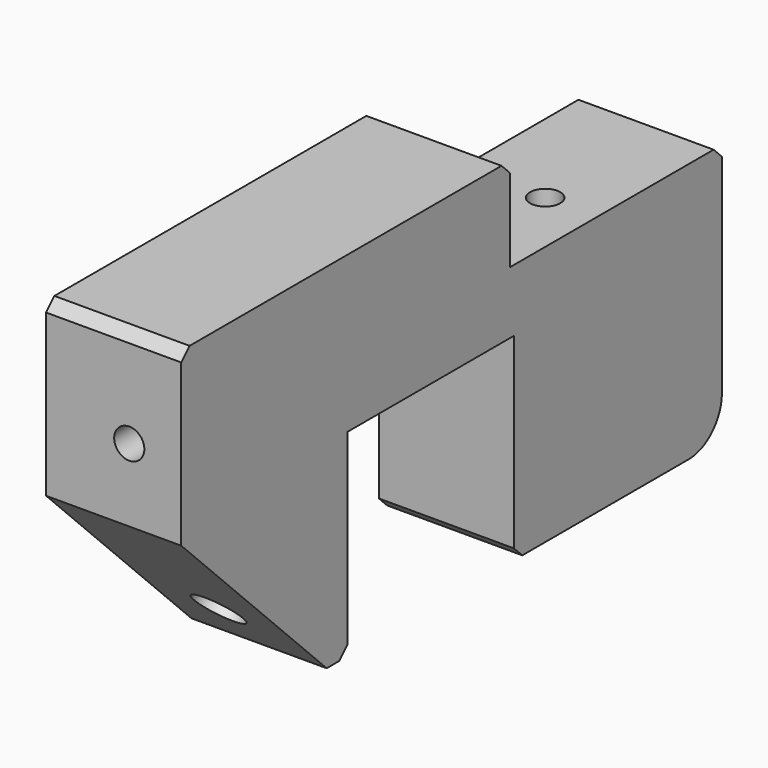
from build123d import *

# Parameters (mm, degrees)
BOX012_W                    = 13
BOX012_H                    = 65
BOX012_DEPTH                = 1
CYLINDER004_R               = 4
CYLINDER004_DEPTH           = 10
CYLINDER002_R               = 1.45
CYLINDER002_DEPTH           = 10
CYLINDER001_R               = 2.35
CYLINDER001_DEPTH           = 15
CYLINDER001_PLACEMENT_ANGLE = 45
CYLINDER_R                  = 1.45
CYLINDER_DEPTH              = 10
BOX004_W                    = 8
BOX004_H                    = 20
BOX004_DEPTH                = 15
BOX002_W                    = 13
BOX002_H                    = 25.5
BOX002_DEPTH                = 9
BOX003_W                    = 13
BOX003_H                    = 25
BOX003_DEPTH                = 50
BOX003_PLACEMENT_ANGLE      = 45
BOX_W                       = 13
BOX_H                       = 20
BOX_DEPTH                   = 20
BOX001_W                    = 13
BOX001_H                    = 65
BOX001_DEPTH                = 35
CHAMFER_SIZE                = 1
FILLET_R                    = 4


with BuildPart() as cube008:
    # Box012 → Box012 (new body)
    with BuildSketch(Plane(origin=(0, -20, 0), x_dir=(1, 0, 0), z_dir=(0, 0, 1))):
        with Locations((6.5, 32.5)):
            Rectangle(BOX012_W, BOX012_H)
    extrude(amount=BOX012_DEPTH)


with BuildPart() as cylinder004:
    # Cylinder004 → Cylinder004 (new body)
    with BuildSketch(Plane(origin=(0, 37.5, 6), x_dir=(0, 0, -1), z_dir=(1, 0, 0))):
        Circle(CYLINDER004_R)
    extrude(amount=CYLINDER004_DEPTH)


with BuildPart() as cylinder002:
    # Cylinder002 → Cylinder002 (new body)
    with BuildSketch(Plane(origin=(8, -11, 25.5), x_dir=(1, 0, 0), z_dir=(0, -1, 0))):
        Circle(CYLINDER002_R)
    extrude(amount=CYLINDER002_DEPTH)


with BuildPart() as cylinder001:
    # Cylinder001 → Cylinder001 (new body)
    with BuildSketch(Plane.XY):
        Circle(CYLINDER001_R)
    extrude(amount=CYLINDER001_DEPTH)


with BuildPart() as cylinder001_1:
    # Cylinder001 placement: moved
    add(cylinder001.part.moved(Location((6.5, -8.899495, 4.343146))).rotate(Axis((6.5, -8.899495, 4.343146), (-1, 0, 0)), CYLINDER001_PLACEMENT_ANGLE))


with BuildPart() as fusion_holes:
    # Cylinder → Cylinder (new body)
    with BuildSketch(Plane(origin=(8, 30, 18), x_dir=(1, 0, 0), z_dir=(0, 0, 1))):
        Circle(CYLINDER_R)
    extrude(amount=CYLINDER_DEPTH)

    # Fusion001: union Cylinder002, Cylinder001
    add(cylinder002.part)
    add(cylinder001_1.part)


with BuildPart() as cube003:
    # Box004 → Box004 (new body)
    with BuildSketch(Plane(origin=(0, 25, 0), x_dir=(1, 0, 0), z_dir=(0, 0, 1))):
        with Locations((4, 10)):
            Rectangle(BOX004_W, BOX004_H)
    extrude(amount=BOX004_DEPTH)


with BuildPart() as cube002:
    # Box002 → Box002 (new body)
    with BuildSketch(Plane(origin=(0, 19.5, 26), x_dir=(1, 0, 0), z_dir=(0, 0, 1))):
        with Locations((6.5, 12.75)):
            Rectangle(BOX002_W, BOX002_H)
    extrude(amount=BOX002_DEPTH)


with BuildPart() as cube_45deg:
    # Box003 → Box003 (new body)
    with BuildSketch(Plane.XY):
        with Locations((6.5, 12.5)):
            Rectangle(BOX003_W, BOX003_H)
    extrude(amount=BOX003_DEPTH)


with BuildPart() as cube_45deg_1:
    # Box003 placement: moved
    add(cube_45deg.part.moved(Location((0, -18.485281, -18.384776))).rotate(Axis((0, -18.485281, -18.384776), (1, 0, 0)), BOX003_PLACEMENT_ANGLE))


with BuildPart() as fusion:
    # Box → Box (new body)
    with BuildSketch(Plane.XY):
        with Locations((6.5, 10)):
            Rectangle(BOX_W, BOX_H)
    extrude(amount=BOX_DEPTH)

    # Fusion: union Cube002, cube_45deg
    add(cube002.part)
    add(cube_45deg_1.part)


with BuildPart() as body:
    # Box001 → Box001 (new body)
    with BuildSketch(Plane(origin=(0, -20, 0), x_dir=(1, 0, 0), z_dir=(0, 0, 1))):
        with Locations((6.5, 32.5)):
            Rectangle(BOX001_W, BOX001_H)
    extrude(amount=BOX001_DEPTH)

    # Cut: cut Fusion
    add(fusion.part, mode=Mode.SUBTRACT)

    # Cut001: cut Cube003
    add(cube003.part, mode=Mode.SUBTRACT)

    # Cut002: cut fusion holes
    add(fusion_holes.part, mode=Mode.SUBTRACT)

    # Fusion002: union Cylinder004
    add(cylinder004.part)

    # Cut008: cut Cube008
    add(cube008.part, mode=Mode.SUBTRACT)

    # Chamfer
    chamfer_edges = [body.edges().sort_by_distance(p)[0] for p in [
        (6.5, 45, 26),
        (6.5, 19.5, 35),
        (6.5, -20, 35),
        (6.5, 0, 1),
        (6.5, 20, 1),
    ]]
    chamfer(chamfer_edges, length=CHAMFER_SIZE)

    # Fillet
    fillet_edges = [body.edges().sort_by_distance(p)[0] for p in [
        (10.5, 45, 1),
        (4, 25, 15),
    ]]
    fillet(fillet_edges, radius=FILLET_R)


solid = body.part
